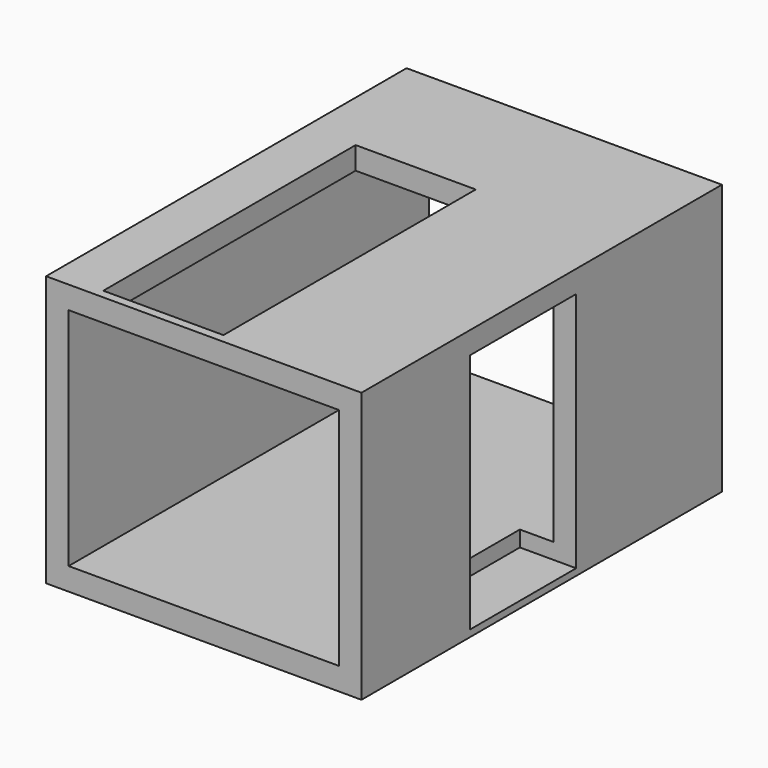
from build123d import *

# Parameters (mm, degrees)
F0_W     = 2133.6
F0_H     = 1828.8
F1_DEPTH = 3048
F2_W     = 1828.8
F2_H     = 1524
F3_DEPTH = 3302
F4_W     = 812.8
F4_H     = 2133.6
F5_DEPTH = 304.8
F6_W     = 898.183346
F6_H     = 1633.220315
F7_DEPTH = 381


with BuildPart() as f1:
    # F0 (on Front) → F1 (new body)
    with BuildSketch(Plane.XZ):
        with Locations((727.252798, 872.185197)):
            Rectangle(F0_W, F0_H)
    extrude(amount=F1_DEPTH)

    # F2 (on face) → F3 (cut)
    with BuildSketch(Plane.XZ.offset(3048)):
        with Locations((727.252798, 872.185197)):
            Rectangle(F2_W, F2_H)
    extrude(amount=-F3_DEPTH, mode=Mode.SUBTRACT)

    # F4 (on face) → F5 (cut)
    with BuildSketch(Plane.XY.offset(1786.585197)):
        with Locations((406.4, -1921.840308)):
            Rectangle(F4_W, F4_H)
    extrude(amount=-F5_DEPTH, mode=Mode.SUBTRACT)

    # F6 (on face) → F7 (cut)
    with BuildSketch(Plane.YZ.offset(1794.052798)):
        with Locations((-1681.6082, 819.937289)):
            Rectangle(F6_W, F6_H)
    extrude(amount=-F7_DEPTH, mode=Mode.SUBTRACT)


solid = f1.part
